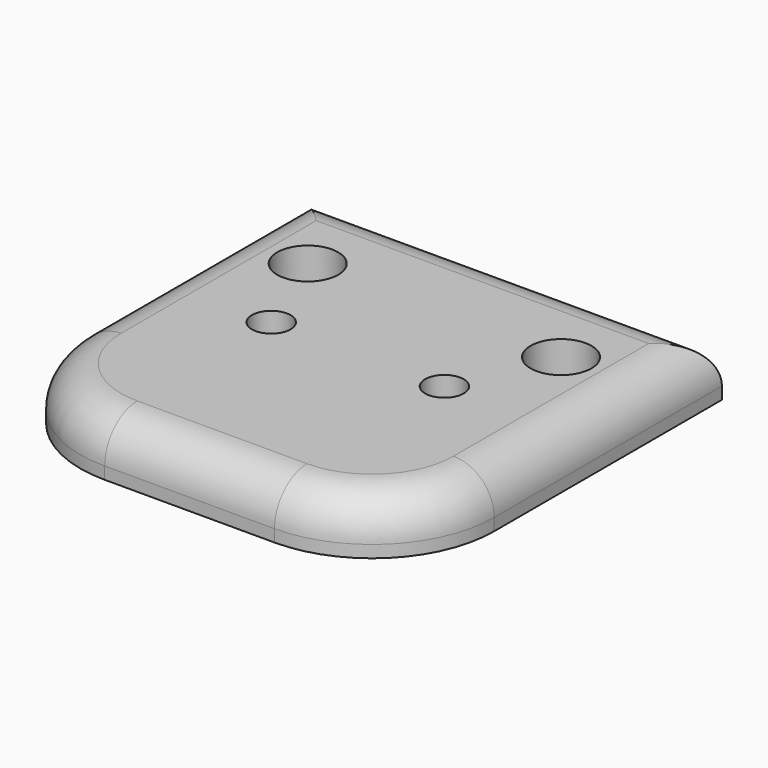
from build123d import *

# Parameters (mm, degrees)
F0_W     = 20.35
F0_H     = 20
F1_DEPTH = 2.6
F2_R     = 1.5
F3_DEPTH = 25
F4_R     = 0.95
F5_DEPTH = 25
F6_R     = 6
F7_R     = 2


with BuildPart() as f1:
    # F0 (on Top) → F1 (new body)
    with BuildSketch(Plane.XY):
        Rectangle(F0_W, F0_H)
    extrude(amount=F1_DEPTH)

    # F2 (on Top) → F3 (cut)
    with BuildSketch(Plane.XY):
        with Locations((-6.2053604051, 5.0143129192)):
            Circle(F2_R)
        with Locations((6.2522287481, 5.0141313113)):
            Circle(F2_R)
    extrude(amount=F3_DEPTH, mode=Mode.SUBTRACT)

    # F4 (on Top) → F5 (cut)
    with BuildSketch(Plane.XY):
        with Locations((-4.2495448142, 0.3267968714)):
            Circle(F4_R)
        with Locations((4.2728632689, 0.318708655)):
            Circle(F4_R)
    extrude(amount=F5_DEPTH, mode=Mode.SUBTRACT)

    # F6
    f6_edges = [f1.edges().sort_by_distance(p)[0] for p in [
        (10.175, -10, 1.3),
        (-10.175, -10, 1.3),
    ]]
    fillet(f6_edges, radius=F6_R)

    # F7
    f7_edges = [f1.edges().sort_by_distance(p)[0] for p in [
        (-8.417641, -8.242641, 2.6),
        (8.417641, -8.242641, 2.6),
        (10.175, 3, 2.6),
        (0, 10, 2.6),
        (-10.175, 3, 2.6),
        (0, -10, 2.6),
    ]]
    fillet(f7_edges, radius=F7_R)


solid = f1.part
